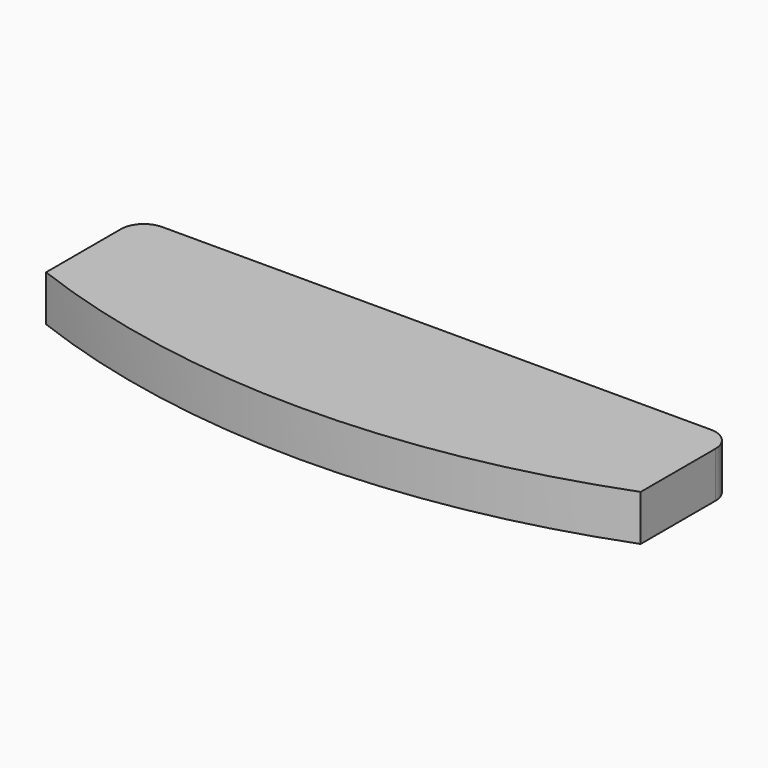
from build123d import *

# Parameters (mm, degrees)
F1_DEPTH = 6


with BuildPart() as f1:
    # F0 (on Top) → F1 (new body)
    with BuildSketch(Plane.XY):
        with BuildLine():
            Line((36.750855, 4.099338), (-35.06828, 4.099338))
            ThreePointArc((-35.06828, 4.099338), (-37.1896, 3.220659), (-38.06828, 1.099338))
            Line((-38.06828, 1.099338), (-38.06828, -11.147065))
            Line((-38.06828, -11.147065), (39.750855, -11.147065))
            Line((39.750855, -11.147065), (39.750855, 1.099338))
            ThreePointArc((39.750855, 1.099338), (38.872176, 3.220659), (36.750855, 4.099338))
        make_face()
        with BuildLine():
            Line((39.750855, -11.147065), (-38.06828, -11.147065))
            ThreePointArc((-38.06828, -11.147065), (0.841288, -18.303069), (39.750855, -11.147065))
        make_face()
    extrude(amount=F1_DEPTH)


solid = f1.part
